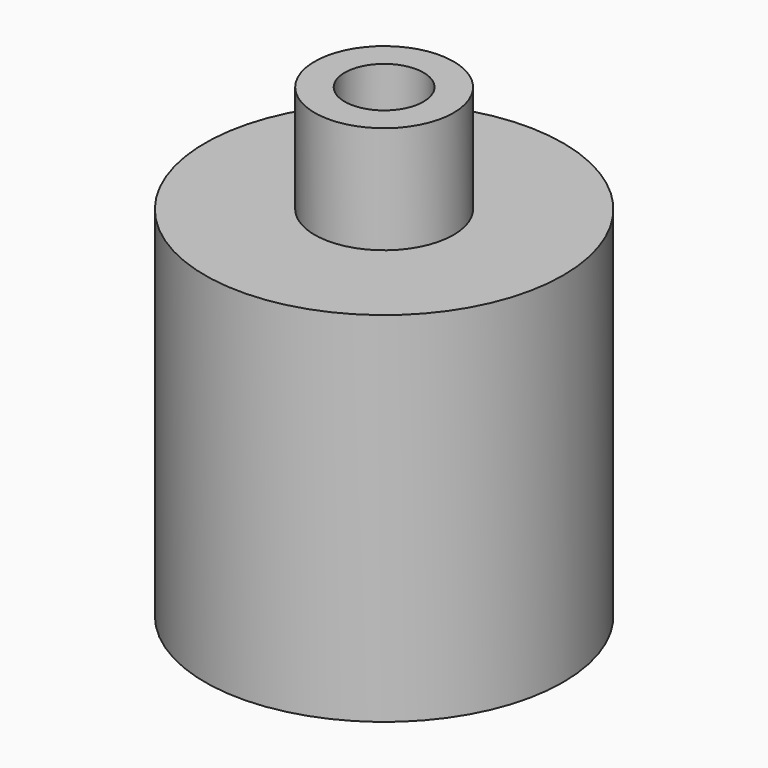
from build123d import *

# Parameters (mm, degrees)
SKETCH245_R     = 2.5
SKETCH245_R_2   = 0.5
PAD160_DEPTH    = 1
SKETCH237_R     = 0.97
SKETCH237_R_2   = 0.55
PAD163_DEPTH    = 1.5
SKETCH307_R     = 2.5
SKETCH307_R_2   = 1.5
PAD212_DEPTH    = 4
CHAMFER004_SIZE = 0.95


with BuildPart() as part:
    # Sketch245 → Pad160 (new body)
    with BuildSketch(Plane.XY):
        Circle(SKETCH245_R)
        Circle(SKETCH245_R_2, mode=Mode.SUBTRACT)
    extrude(amount=PAD160_DEPTH)

    # Sketch237 (on Face4 of Pad160) → Pad163 (join)
    with BuildSketch(Plane.XY.offset(1)):
        Circle(SKETCH237_R)
        Circle(SKETCH237_R_2, mode=Mode.SUBTRACT)
    extrude(amount=PAD163_DEPTH)

    # Sketch307 (on Face2 of Pad163) → Pad212 (join)
    with BuildSketch(Plane(origin=(0, 0, 0), x_dir=(1, 0, 0), z_dir=(0, 0, -1))):
        Circle(SKETCH307_R)
        Circle(SKETCH307_R_2, mode=Mode.SUBTRACT)
    extrude(amount=PAD212_DEPTH)

    # Chamfer004
    chamfer004_edges = [part.edges().sort_by_distance(p)[0] for p in [
        (-1.5, 0, 0),
    ]]
    chamfer(chamfer004_edges, length=CHAMFER004_SIZE)


with BuildPart() as part_1:
    # Body039 placement: moved
    add(part.part.moved(Location((0, 0, -2.2))))


solid = part_1.part
